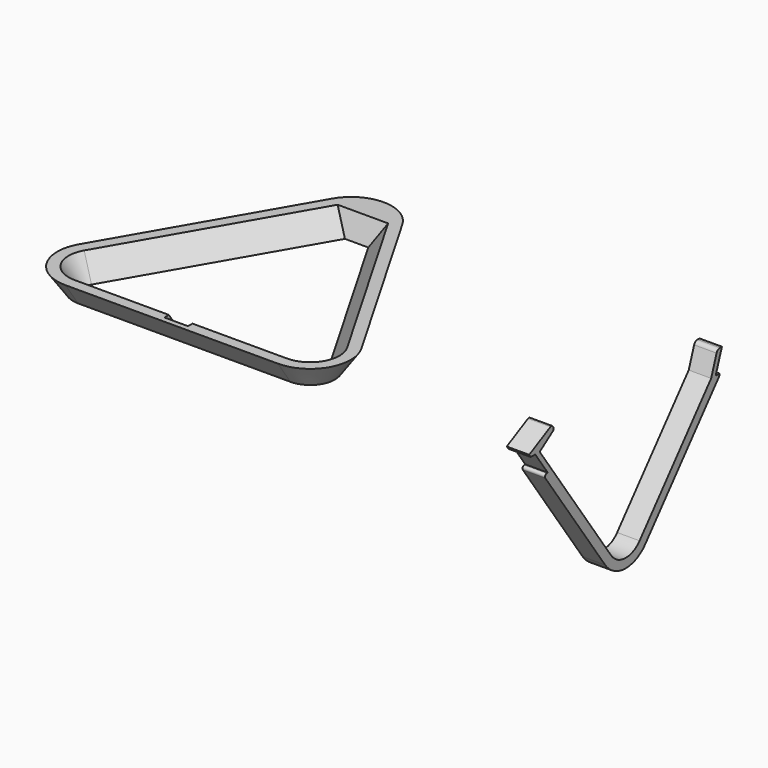
from build123d import *

# Parameters (mm, degrees)
F7_DEPTH = 20
F9_DEPTH = 10.5


with BuildPart() as f2:
    # F2: sweep along a path in F0
    with BuildLine(Plane.XY) as f2_path:
        Line((-94.685444, 0), (94.685444, 0))
        ThreePointArc((94.685444, 0), (105.077749, 6), (105.077749, 18))
        Line((105.077749, 18), (10.392305, 182))
        ThreePointArc((10.392305, 182), (0, 188), (-10.392305, 182))
        Line((-10.392305, 182), (-105.077749, 18))
        ThreePointArc((-105.077749, 18), (-105.077749, 6), (-94.685444, 0))
    # F1 (on Right) → F2 (sweep)
    with BuildSketch(Plane.YZ):
        Polygon((-10, 0), (0, 0), (-14.004151, 20), (-24.004151, 20), align=None)
    sweep(path=f2_path.line)

    # F0 (on Top) → F4 section 0
    with BuildSketch(Plane.XY):
        with BuildLine():
            ThreePointArc((10.392305, 182), (0, 188), (-10.392305, 182))
            Line((-10.392305, 182), (10.392305, 182))
        make_face()
    # F3 (on face) → F4 section 1
    with BuildSketch(Plane.XY.offset(20)):
        with BuildLine():
            Line((-22.520255, 189.002075), (22.520255, 189.002075))
            ThreePointArc((22.520255, 189.002075), (0, 202.004151), (-22.520255, 189.002075))
        make_face()
    loft()

    # F8 (on Right) → F9 (cut, symmetric)
    with BuildSketch(Plane.YZ):
        Polygon((-19.004151, 20), (-5, 0), (5, 0), (-9.004151, 20), align=None)
    extrude(amount=F9_DEPTH, both=True, mode=Mode.SUBTRACT)


with BuildPart() as f7:
    # F6 (on offset) → F7 (new body)
    with BuildSketch(Plane.YZ.offset(300)):
        with BuildLine():
            Line((186.471641, 0), (182, 0))
            Line((182, 0), (189.002075, 20))
            Line((189.002075, 20), (186.839721, 20))
            ThreePointArc((186.839721, 20), (184.52531, 19.262438), (183.06441, 17.321751))
            Line((183.06441, 17.321751), (177, 0))
            Line((177, 0), (97.268564, -95.020225))
            ThreePointArc((97.268564, -95.020225), (81.075287, -102.145437), (65.564634, -93.636002))
            Line((65.564634, -93.636002), (0, 0))
            Line((0, 0), (-14.004151, 20))
            Line((-14.004151, 20), (0.740586, 30.324376))
            ThreePointArc((0.740586, 30.324376), (1.563049, 31.615384), (1.231737, 33.109833))
            Line((1.231737, 33.109833), (0.516175, 34.131761))
            ThreePointArc((0.516175, 34.131761), (-0.645935, 34.927091), (-2.044124, 34.759411))
            Line((-2.044124, 34.759411), (-25.72488, 22.457456))
            Line((-25.72488, 22.457456), (-24.004151, 20))
            Line((-24.004151, 20), (-19.004151, 20))
            Line((-19.004151, 20), (-5, 0))
            Line((-5, 0), (-6.158036, 0))
            ThreePointArc((-6.158036, 0), (-7.932057, -1.076503), (-7.79634, -3.147153))
            Line((-7.79634, -3.147153), (58.854534, -98.334465))
            ThreePointArc((58.854534, -98.334465), (80.717978, -110.329161), (103.543633, -100.285633))
            Line((103.543633, -100.285633), (185.535819, -2.57115))
            ThreePointArc((185.535819, -2.57115), (186.230412, -1.368081), (186.471641, 0))
        make_face()
    extrude(amount=F7_DEPTH)


solid = Compound([f2.part, f7.part])
